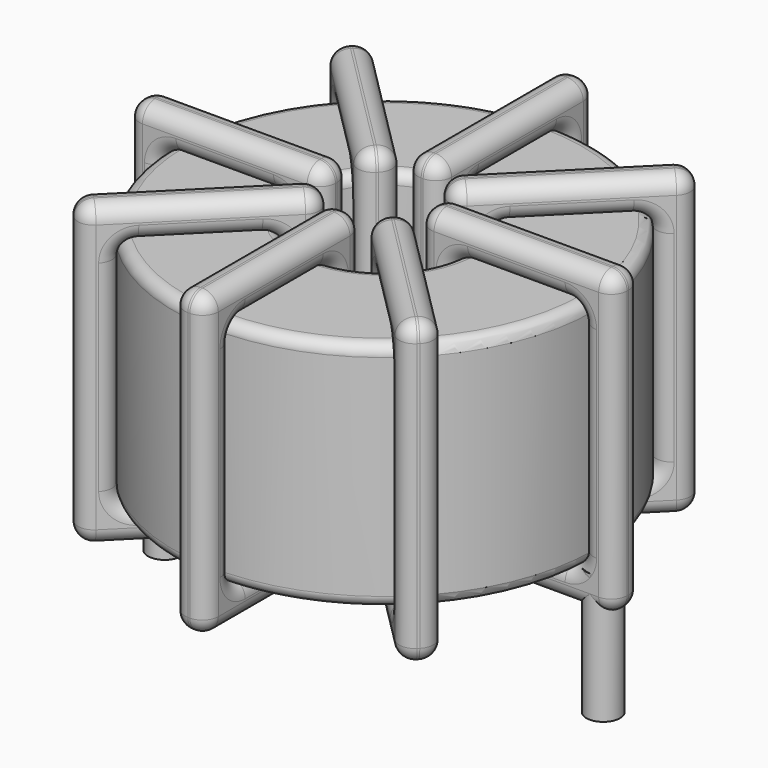
from build123d import *

# Parameters (mm, degrees)
SKETCH001_R       = 0.75
PAD001_DEPTH      = 0.75
PAD001_DEPTH_BACK = 5
SKETCH_R          = 9.4
SKETCH_R_2        = 3.633333
PAD_DEPTH         = 10.4
FILLET_R          = 0.5
SKETCH003_W       = 8.766667
SKETCH003_H       = 13.4
SKETCH003_W_2     = 5.766667
SKETCH003_H_2     = 10.4
PAD002_DEPTH      = 0.75
FILLET001_R       = 0.705
SKETCH004_W       = 8.766667
SKETCH004_H       = 13.4
SKETCH004_W_2     = 5.766667
SKETCH004_H_2     = 10.4
PAD003_DEPTH      = 0.75
FILLET002_R       = 0.705
SKETCH005_W       = 8.766667
SKETCH005_H       = 13.4
SKETCH005_W_2     = 5.766667
SKETCH005_H_2     = 10.4
PAD004_DEPTH      = 0.75
FILLET003_R       = 0.705
SKETCH006_W       = 8.766667
SKETCH006_H       = 13.4
SKETCH006_W_2     = 5.766667
SKETCH006_H_2     = 10.4
PAD005_DEPTH      = 0.75
FILLET004_R       = 0.705


with BuildPart() as pad001:
    # Sketch001 → Pad001 (new body, two sides)
    with BuildSketch(Plane.XY.offset(1.25)) as pad001_sk:
        Circle(SKETCH001_R)
        with Locations((19.6, 0)):
            Circle(SKETCH001_R)
    extrude(amount=PAD001_DEPTH)
    extrude(pad001_sk.sketch, amount=-PAD001_DEPTH_BACK)


with BuildPart() as fillet_body:
    # Sketch → Pad (new body)
    with BuildSketch(Plane.XY.offset(2)):
        with Locations((9.8, 0)):
            Circle(SKETCH_R)
        with Locations((9.8, 0)):
            Circle(SKETCH_R_2, mode=Mode.SUBTRACT)
    extrude(amount=PAD_DEPTH)

    # Fillet
    fillet_edges = [fillet_body.edges().sort_by_distance(p)[0] for p in [
        (6.166667, 0, 12.4),
        (0.4, 0, 12.4),
        (0.4, 0, 2),
    ]]
    fillet(fillet_edges, radius=FILLET_R)


with BuildPart() as fillet001:
    # Sketch003 → Pad002 (new body, symmetric)
    with BuildSketch(Plane(origin=(9.8, 0, 0), x_dir=(1, 0, 0), z_dir=(0, -1, 0))):
        with Locations((-6.516667, 7.2)):
            Rectangle(SKETCH003_W, SKETCH003_H)
        with Locations((-6.516667, 7.2)):
            Rectangle(SKETCH003_W_2, SKETCH003_H_2, mode=Mode.SUBTRACT)
        with Locations((6.516667, 7.2)):
            Rectangle(SKETCH003_W, SKETCH003_H)
        with Locations((6.516667, 7.2)):
            Rectangle(SKETCH003_W_2, SKETCH003_H_2, mode=Mode.SUBTRACT)
    extrude(amount=PAD002_DEPTH, both=True)

    # Fillet001
    fillet001_edges = [fillet001.edges().sort_by_distance(p)[0] for p in [
        (6.166667, 0, 12.4),
        (6.166667, 0, 2),
        (6.166667, 0.75, 7.2),
        (6.166667, -0.75, 7.2),
        (-1.1, 0, 13.9),
        (7.666667, 0, 13.9),
        (3.283333, 0.75, 13.9),
        (3.283333, -0.75, 13.9),
        (7.666667, 0, 0.5),
        (7.666667, 0.75, 7.2),
        (7.666667, -0.75, 7.2),
        (13.433333, 0, 12.4),
        (19.2, 0, 12.4),
        (16.316667, 0.75, 12.4),
        (16.316667, -0.75, 12.4),
        (19.2, 0, 2),
        (19.2, 0.75, 7.2),
        (19.2, -0.75, 7.2),
        (11.933333, 0, 13.9),
        (20.7, 0, 13.9),
        (16.316667, 0.75, 13.9),
        (16.316667, -0.75, 13.9),
        (20.7, 0, 0.5),
        (20.7, 0.75, 7.2),
        (20.7, -0.75, 7.2),
        (0.4, 0, 12.4),
        (3.283333, 0.75, 12.4),
        (3.283333, -0.75, 12.4),
        (13.433333, 0, 2),
        (13.433333, 0.75, 7.2),
        (13.433333, -0.75, 7.2),
        (16.316667, 0.75, 2),
        (16.316667, -0.75, 2),
        (11.933333, 0, 0.5),
        (16.316667, 0.75, 0.5),
        (16.316667, -0.75, 0.5),
        (11.933333, 0.75, 7.2),
        (11.933333, -0.75, 7.2),
        (-1.1, 0, 0.5),
        (3.283333, 0.75, 0.5),
        (3.283333, -0.75, 0.5),
        (-1.1, 0.75, 7.2),
        (-1.1, -0.75, 7.2),
        (0.4, 0, 2),
        (0.4, 0.75, 7.2),
        (0.4, -0.75, 7.2),
        (3.283333, 0.75, 2),
        (3.283333, -0.75, 2),
    ]]
    fillet(fillet001_edges, radius=FILLET001_R)


with BuildPart() as fillet002:
    # Sketch004 → Pad003 (new body, symmetric)
    with BuildSketch(Plane(origin=(9.8, 0, 0), x_dir=(0.707107, 0.707107, 0), z_dir=(0.707107, -0.707107, 0))):
        with Locations((-6.516667, 7.2)):
            Rectangle(SKETCH004_W, SKETCH004_H)
        with Locations((-6.516667, 7.2)):
            Rectangle(SKETCH004_W_2, SKETCH004_H_2, mode=Mode.SUBTRACT)
        with Locations((6.516667, 7.2)):
            Rectangle(SKETCH004_W, SKETCH004_H)
        with Locations((6.516667, 7.2)):
            Rectangle(SKETCH004_W_2, SKETCH004_H_2, mode=Mode.SUBTRACT)
    extrude(amount=PAD003_DEPTH, both=True)

    # Fillet002
    fillet002_edges = [fillet002.edges().sort_by_distance(p)[0] for p in [
        (7.230845, -2.569155, 12.4),
        (7.230845, -2.569155, 2),
        (6.700515, -2.038825, 7.2),
        (7.761175, -3.099485, 7.2),
        (2.092536, -7.707464, 13.9),
        (2.092536, -7.707464, 0.5),
        (1.562206, -7.177134, 7.2),
        (2.622866, -8.237794, 7.2),
        (8.291506, -1.508494, 13.9),
        (4.661691, -4.077649, 0.5),
        (5.722351, -5.138309, 0.5),
        (12.369155, 2.569155, 2),
        (12.369155, 2.569155, 12.4),
        (11.838825, 3.099485, 7.2),
        (12.899485, 2.038825, 7.2),
        (16.446804, 6.646804, 2),
        (13.877649, 5.138309, 2),
        (14.938309, 4.077649, 2),
        (11.308494, 1.508494, 0.5),
        (11.308494, 1.508494, 13.9),
        (10.778164, 2.038825, 7.2),
        (11.838825, 0.978164, 7.2),
        (17.507464, 7.707464, 0.5),
        (13.877649, 5.138309, 0.5),
        (14.938309, 4.077649, 0.5),
        (3.153196, -6.646804, 12.4),
        (4.661691, -4.077649, 12.4),
        (5.722351, -5.138309, 12.4),
        (16.446804, 6.646804, 12.4),
        (13.877649, 5.138309, 12.4),
        (14.938309, 4.077649, 12.4),
        (15.916474, 7.177134, 7.2),
        (16.977134, 6.116474, 7.2),
        (17.507464, 7.707464, 13.9),
        (16.977134, 8.237794, 7.2),
        (18.037794, 7.177134, 7.2),
        (13.877649, 5.138309, 13.9),
        (14.938309, 4.077649, 13.9),
        (8.291506, -1.508494, 0.5),
        (7.761175, -0.978164, 7.2),
        (8.821836, -2.038825, 7.2),
        (4.661691, -4.077649, 13.9),
        (5.722351, -5.138309, 13.9),
        (3.153196, -6.646804, 2),
        (2.622866, -6.116474, 7.2),
        (3.683526, -7.177134, 7.2),
        (4.661691, -4.077649, 2),
        (5.722351, -5.138309, 2),
    ]]
    fillet(fillet002_edges, radius=FILLET002_R)


with BuildPart() as fillet003:
    # Sketch005 → Pad004 (new body, symmetric)
    with BuildSketch(Plane(origin=(9.8, 0, 0), x_dir=(0.707107, -0.707107, 0), z_dir=(-0.707107, -0.707107, 0))):
        with Locations((-6.516667, 7.2)):
            Rectangle(SKETCH005_W, SKETCH005_H)
        with Locations((-6.516667, 7.2)):
            Rectangle(SKETCH005_W_2, SKETCH005_H_2, mode=Mode.SUBTRACT)
        with Locations((6.516667, 7.2)):
            Rectangle(SKETCH005_W, SKETCH005_H)
        with Locations((6.516667, 7.2)):
            Rectangle(SKETCH005_W_2, SKETCH005_H_2, mode=Mode.SUBTRACT)
    extrude(amount=PAD004_DEPTH, both=True)

    # Fillet003
    fillet003_edges = [fillet003.edges().sort_by_distance(p)[0] for p in [
        (3.153196, 6.646804, 12.4),
        (7.230845, 2.569155, 2),
        (5.722351, 5.138309, 2),
        (4.661691, 4.077649, 2),
        (2.092536, 7.707464, 13.9),
        (8.291506, 1.508494, 13.9),
        (5.722351, 5.138309, 13.9),
        (4.661691, 4.077649, 13.9),
        (8.291506, 1.508494, 0.5),
        (8.821836, 2.038825, 7.2),
        (7.761175, 0.978164, 7.2),
        (12.369155, -2.569155, 2),
        (12.369155, -2.569155, 12.4),
        (12.899485, -2.038825, 7.2),
        (11.838825, -3.099485, 7.2),
        (16.446804, -6.646804, 2),
        (14.938309, -4.077649, 2),
        (13.877649, -5.138309, 2),
        (11.308494, -1.508494, 0.5),
        (11.308494, -1.508494, 13.9),
        (11.838825, -0.978164, 7.2),
        (10.778164, -2.038825, 7.2),
        (17.507464, -7.707464, 0.5),
        (14.938309, -4.077649, 0.5),
        (13.877649, -5.138309, 0.5),
        (3.153196, 6.646804, 2),
        (3.683526, 7.177134, 7.2),
        (2.622866, 6.116474, 7.2),
        (16.446804, -6.646804, 12.4),
        (14.938309, -4.077649, 12.4),
        (13.877649, -5.138309, 12.4),
        (16.977134, -6.116474, 7.2),
        (15.916474, -7.177134, 7.2),
        (17.507464, -7.707464, 13.9),
        (18.037794, -7.177134, 7.2),
        (16.977134, -8.237794, 7.2),
        (14.938309, -4.077649, 13.9),
        (13.877649, -5.138309, 13.9),
        (2.092536, 7.707464, 0.5),
        (5.722351, 5.138309, 0.5),
        (4.661691, 4.077649, 0.5),
        (2.622866, 8.237794, 7.2),
        (1.562206, 7.177134, 7.2),
        (7.230845, 2.569155, 12.4),
        (5.722351, 5.138309, 12.4),
        (4.661691, 4.077649, 12.4),
        (7.761175, 3.099485, 7.2),
        (6.700515, 2.038825, 7.2),
    ]]
    fillet(fillet003_edges, radius=FILLET003_R)


with BuildPart() as fillet004:
    # Sketch006 → Pad005 (new body, symmetric)
    with BuildSketch(Plane.YZ.offset(9.8)):
        with Locations((-6.516667, 7.2)):
            Rectangle(SKETCH006_W, SKETCH006_H)
        with Locations((-6.516667, 7.2)):
            Rectangle(SKETCH006_W_2, SKETCH006_H_2, mode=Mode.SUBTRACT)
        with Locations((6.516667, 7.2)):
            Rectangle(SKETCH006_W, SKETCH006_H)
        with Locations((6.516667, 7.2)):
            Rectangle(SKETCH006_W_2, SKETCH006_H_2, mode=Mode.SUBTRACT)
    extrude(amount=PAD005_DEPTH, both=True)

    # Fillet004
    fillet004_edges = [fillet004.edges().sort_by_distance(p)[0] for p in [
        (9.8, -3.633333, 12.4),
        (9.8, -3.633333, 2),
        (9.05, -3.633333, 7.2),
        (10.55, -3.633333, 7.2),
        (9.8, -10.9, 13.9),
        (9.8, -2.133333, 13.9),
        (9.05, -6.516667, 13.9),
        (10.55, -6.516667, 13.9),
        (9.8, -2.133333, 0.5),
        (9.05, -2.133333, 7.2),
        (10.55, -2.133333, 7.2),
        (9.8, 3.633333, 12.4),
        (9.8, 9.4, 12.4),
        (9.05, 6.516667, 12.4),
        (10.55, 6.516667, 12.4),
        (9.8, 9.4, 2),
        (9.05, 9.4, 7.2),
        (10.55, 9.4, 7.2),
        (9.8, 2.133333, 13.9),
        (9.8, 10.9, 13.9),
        (9.05, 6.516667, 13.9),
        (10.55, 6.516667, 13.9),
        (9.8, 10.9, 0.5),
        (9.05, 10.9, 7.2),
        (10.55, 10.9, 7.2),
        (9.8, -9.4, 12.4),
        (9.05, -6.516667, 12.4),
        (10.55, -6.516667, 12.4),
        (9.8, 3.633333, 2),
        (9.05, 3.633333, 7.2),
        (10.55, 3.633333, 7.2),
        (9.05, 6.516667, 2),
        (10.55, 6.516667, 2),
        (9.8, 2.133333, 0.5),
        (9.05, 6.516667, 0.5),
        (10.55, 6.516667, 0.5),
        (9.05, 2.133333, 7.2),
        (10.55, 2.133333, 7.2),
        (9.8, -10.9, 0.5),
        (9.05, -6.516667, 0.5),
        (10.55, -6.516667, 0.5),
        (9.05, -10.9, 7.2),
        (10.55, -10.9, 7.2),
        (9.8, -9.4, 2),
        (9.05, -9.4, 7.2),
        (10.55, -9.4, 7.2),
        (9.05, -6.516667, 2),
        (10.55, -6.516667, 2),
    ]]
    fillet(fillet004_edges, radius=FILLET004_R)


solid = Compound([pad001.part, fillet_body.part, fillet001.part, fillet002.part, fillet003.part, fillet004.part])
